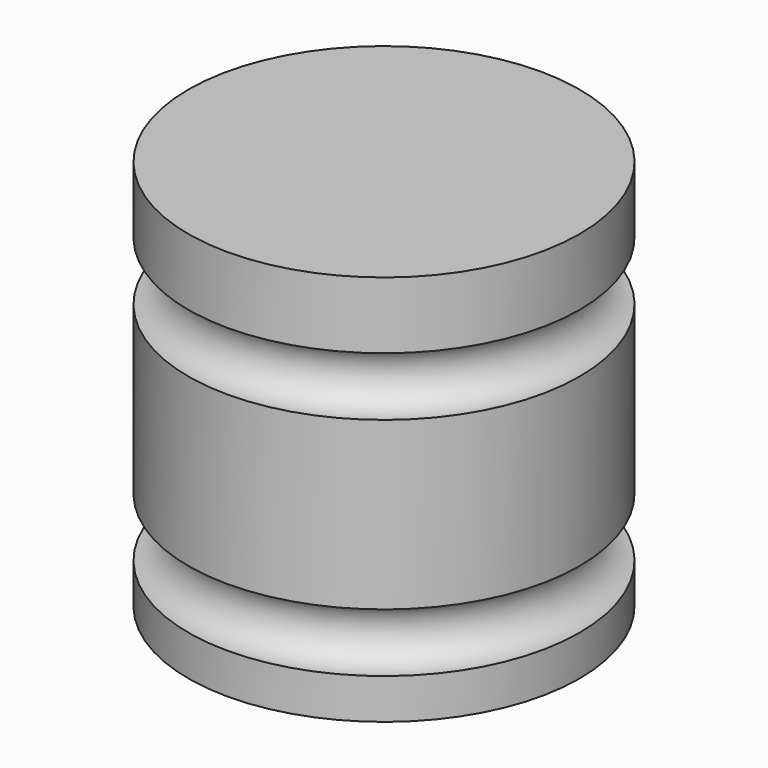
from build123d import *


with BuildPart() as f1:
    # F0 (on Front) → F1 (revolve)
    with BuildSketch(Plane.XZ):
        with BuildLine():
            Line((-25.4, 0), (0, 0))
            Line((0, 0), (0, 5.238145))
            ThreePointArc((0, 5.238145), (-3.81, 9.048145), (0, 12.858145))
            Line((0, 12.858145), (0, 34.517534))
            ThreePointArc((0, 34.517534), (-3.81, 38.327534), (0, 42.137534))
            Line((0, 42.137534), (0, 50.8))
            Line((0, 50.8), (-25.4, 50.8))
            Line((-25.4, 50.8), (-25.4, 0))
        make_face()
    revolve(axis=Axis((-25.4, 0, 25.4), (0, 0, 1)))


solid = f1.part
